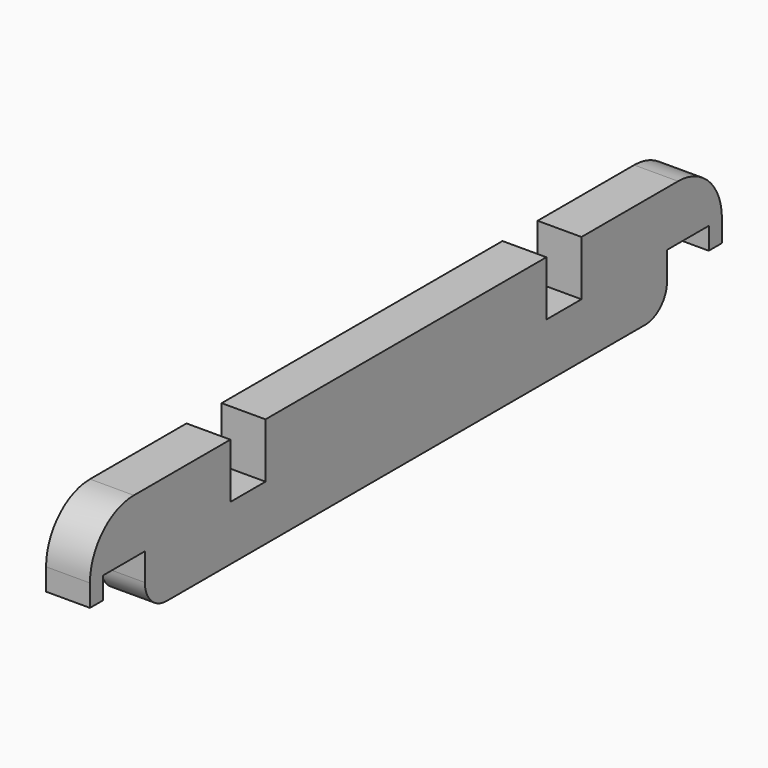
from build123d import *

# Parameters (mm, degrees)
F1_DEPTH = 8
F2_R     = 10
F3_R     = 5


with BuildPart() as f1:
    # F0 (on Right) → F1 (new body)
    with BuildSketch(Plane.YZ):
        Polygon((-69.120196, 185.029493), (-101.120196, 185.029493), (-101.120196, 171.029493), (-98.120196, 171.029493), (-98.120196, 175.029493), (-88.620196, 175.029493), (-88.620196, 165.029493), (30.379804, 165.029493), (30.379804, 175.029493), (39.879804, 175.029493), (39.879804, 171.029493), (42.879804, 171.029493), (42.879804, 185.029493), (10.879804, 185.029493), (10.879804, 175.029493), (2.879804, 175.029493), (2.879804, 185.029493), (-61.120196, 185.029493), (-61.120196, 175.029493), (-69.120196, 175.029493), align=None)
    extrude(amount=-F1_DEPTH)

    # F2
    f2_edges = [f1.edges().sort_by_distance(p)[0] for p in [
        (-4, -101.120196, 185.029493),
        (-4, 42.879804, 185.029493),
    ]]
    fillet(f2_edges, radius=F2_R)

    # F3
    f3_edges = [f1.edges().sort_by_distance(p)[0] for p in [
        (-4, -88.620196, 165.029493),
        (-4, 30.379804, 165.029493),
    ]]
    fillet(f3_edges, radius=F3_R)


solid = f1.part
